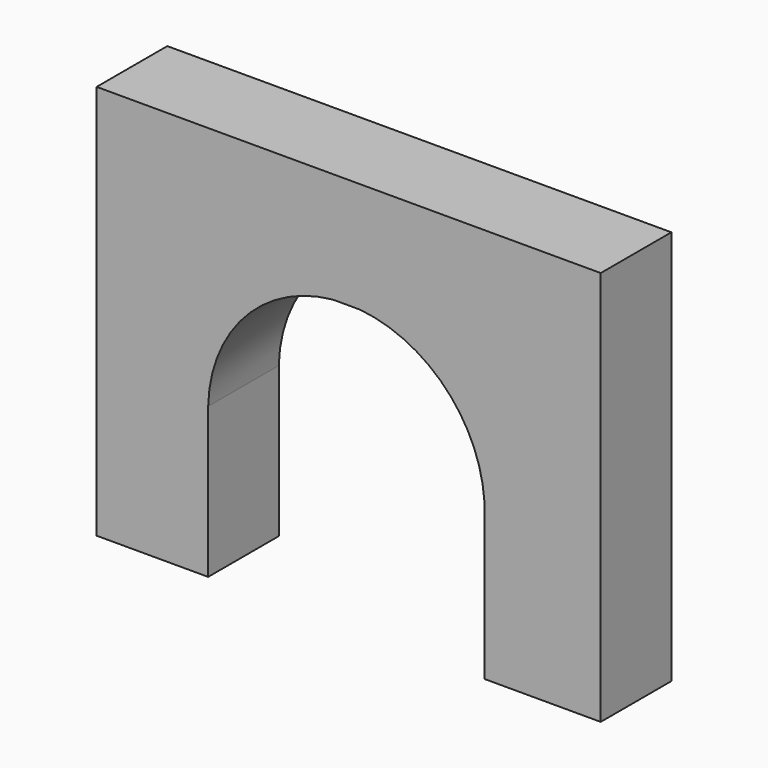
from build123d import *

# Parameters (mm, degrees)
F1_DEPTH = 40.60075
F2_DEPTH = 68.56636
F3_DEPTH = 30.88144
F4_DEPTH = 24.11302


with BuildPart() as f1:
    # F0 (on Front) → F1 (new body)
    with BuildSketch(Plane.XZ):
        with BuildLine():
            Line((63.3510070145, 61.2396271003), (-63.6489929855, 61.2396271003))
            Line((-63.6489929855, 61.2396271003), (-63.6489929855, 10.4396271003))
            Line((-63.6489929855, 10.4396271003), (-6.3833664064, 10.4396271003))
            ThreePointArc((-6.3833664064, 10.4396271003), (-0.080511462, 10.7527853958), (6.2223434824, 10.4396271003))
            Line((6.2223434824, 10.4396271003), (63.3510070145, 10.4396271003))
            Line((63.3510070145, 10.4396271003), (63.3510070145, 61.2396271003))
        make_face()
        Polygon((-63.6489929855, 10.4396271003), (-63.6489929855, 61.2396271003), (-90.8120945096, 61.2396271003), (-90.8120945096, -51.8873035908), (-63.6489929855, -51.8873035908), (-63.6489929855, -51.4030717313), align=None)
        Polygon((85.9697833657, 61.2396271003), (63.3510070145, 61.2396271003), (63.3510070145, 10.4396271003), (63.3510070145, -48.4231859446), (63.3510070145, -51.8873035908), (85.9697833657, -51.8873035908), align=None)
        with BuildLine():
            Line((-6.3833664064, 10.4396271003), (-63.6489929855, 10.4396271003))
            Line((-63.6489929855, 10.4396271003), (-63.6489929855, -51.4030717313))
            ThreePointArc((-63.6489929855, -51.4030717313), (-46.7348870837, -9.6303342951), (-6.3833664064, 10.4396271003))
        make_face()
        with BuildLine():
            Line((63.3510070145, -48.4231859446), (63.3510070145, 10.4396271003))
            Line((63.3510070145, 10.4396271003), (6.2223434824, 10.4396271003))
            ThreePointArc((6.2223434824, 10.4396271003), (45.5476421166, -8.5478399689), (63.3510070145, -48.4231859446))
        make_face()
        with BuildLine():
            ThreePointArc((6.2223434824, 10.4396271003), (-0.080511462, 10.7527853958), (-6.3833664064, 10.4396271003))
            Line((-6.3833664064, 10.4396271003), (6.2223434824, 10.4396271003))
        make_face()
    extrude(amount=F1_DEPTH)

    # F2 (add): faces of the model
    f2_faces = [f1.faces().sort_by_distance(p)[0] for p in [
        (-77.2305437475, -20.300375, -51.8873035908),
        (74.6603951901, -20.300375, -51.8873035908),
    ]]
    extrude(f2_faces, amount=F2_DEPTH)

    # F3 (add): a face of the model
    f3_faces = [f1.faces().sort_by_distance(p)[0] for p in [
        (85.9697833657, -20.300375, -29.6070182453),
    ]]
    extrude(f3_faces, amount=F3_DEPTH)

    # F4 (add): a face of the model
    f4_faces = [f1.faces().sort_by_distance(p)[0] for p in [
        (-90.8120945096, -20.300375, -29.6070182453),
    ]]
    extrude(f4_faces, amount=F4_DEPTH)


solid = f1.part
